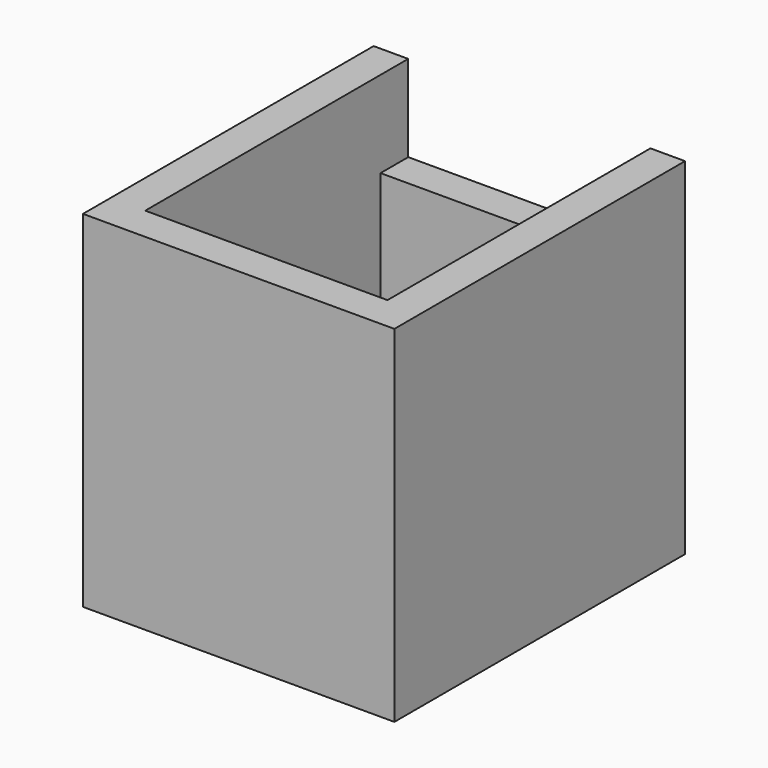
from build123d import *

# Parameters (mm, degrees)
F1_DEPTH = 10
F0_W     = 7
F0_H     = 1
F2_DEPTH = 7.5


with BuildPart() as f1:
    # F0 (on Top) → F1 (new body)
    with BuildSketch(Plane.XY):
        Polygon((-3.5, -4.25), (-3.5, 4.25), (-3.5, 5.25), (-4.5, 5.25), (-4.5, -5.25), (4.5, -5.25), (4.5, 5.25), (3.5, 5.25), (3.5, 4.25), (3.5, -4.25), align=None)
    extrude(amount=F1_DEPTH)

    # F0 (on Top) → F2 (join)
    with BuildSketch(Plane.XY):
        with Locations((0, 4.75)):
            Rectangle(F0_W, F0_H)
    extrude(amount=F2_DEPTH)


solid = f1.part
